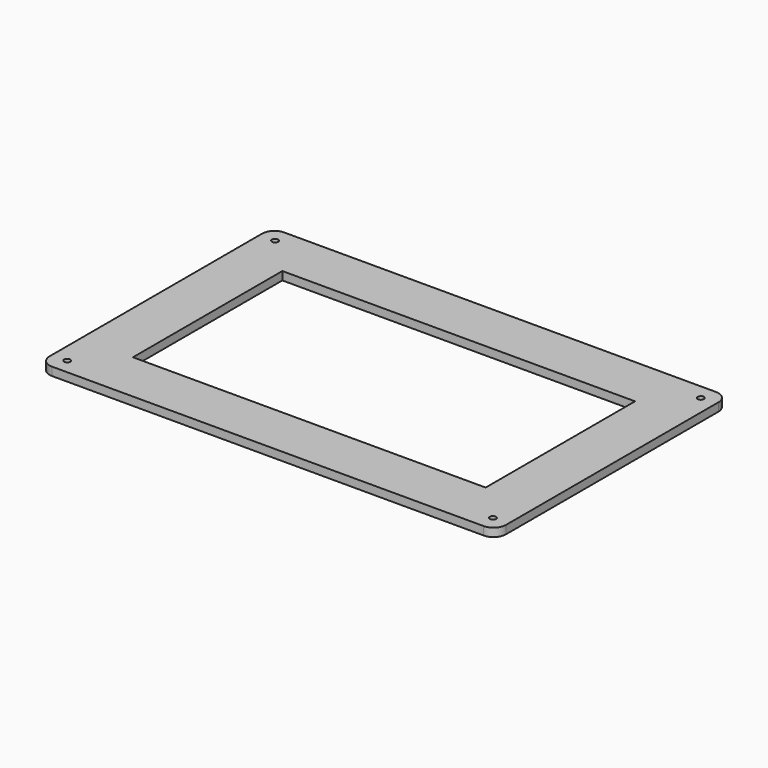
from build123d import *

# Parameters (mm, degrees)
F0_R     = 0.75
F0_W     = 85
F0_H     = 45
F1_DEPTH = 2


with BuildPart() as f1:
    # F0 (on Top) → F1 (new body)
    with BuildSketch(Plane.XY):
        with BuildLine():
            ThreePointArc((55, 32), (54.12132, 34.12132), (52, 35))
            Line((52, 35), (-52, 35))
            ThreePointArc((-52, 35), (-54.12132, 34.12132), (-55, 32))
            Line((-55, 32), (-55, -32))
            ThreePointArc((-55, -32), (-54.12132, -34.12132), (-52, -35))
            Line((-52, -35), (52, -35))
            ThreePointArc((52, -35), (54.12132, -34.12132), (55, -32))
            Line((55, -32), (55, 32))
        make_face()
        with Locations((-51.3, -31.3)):
            Circle(F0_R, mode=Mode.SUBTRACT)
        with Locations((51.3, -31.3)):
            Circle(F0_R, mode=Mode.SUBTRACT)
        with Locations((-51.3, 31.3)):
            Circle(F0_R, mode=Mode.SUBTRACT)
        Rectangle(F0_W, F0_H, mode=Mode.SUBTRACT)
        with Locations((51.3, 31.3)):
            Circle(F0_R, mode=Mode.SUBTRACT)
    extrude(amount=F1_DEPTH)


solid = f1.part
